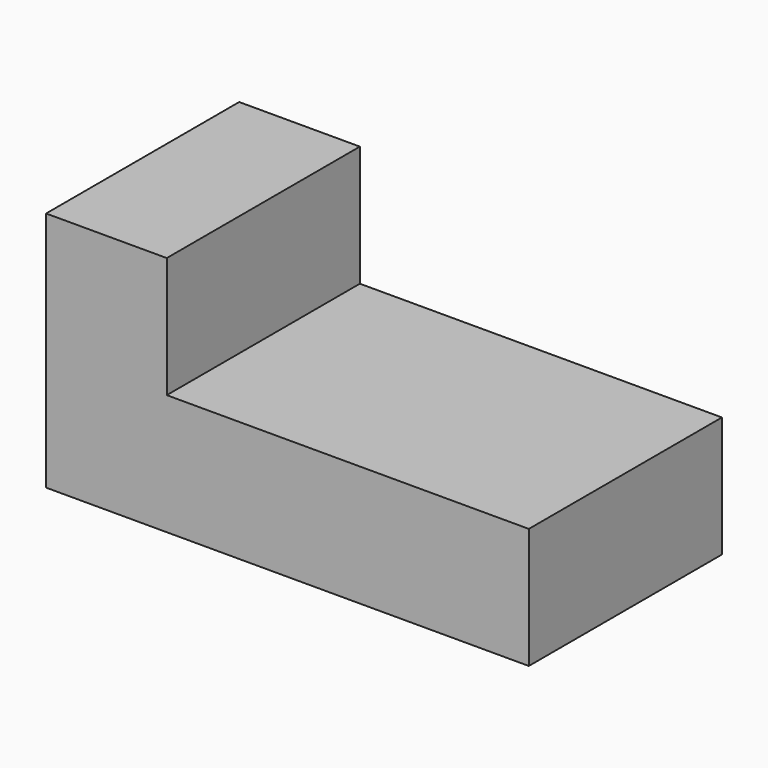
from build123d import *

# Parameters (mm, degrees)
F0_W     = 203.2
F0_H     = 101.6
F1_DEPTH = 50.8
F2_W     = 50.8
F2_H     = 50.8
F3_DEPTH = 101.6
F4_ANGLE = 180


with BuildPart() as f1:
    # F0 (on Top) → F1 (new body)
    with BuildSketch(Plane.XY):
        with Locations((8.5724983364, -10.0287537194)):
            Rectangle(F0_W, F0_H)
    extrude(amount=F1_DEPTH)

    # F2 (on face) → F3 (join)
    with BuildSketch(Plane(origin=(0, 40.7712462806, 0), x_dir=(-1, 0, 0), z_dir=(0, 1, 0))):
        with Locations((-84.7724983364, 76.2)):
            Rectangle(F2_W, F2_H)
    extrude(amount=-F3_DEPTH)


with BuildPart() as f1_1:
    # F4: moved
    add(f1.part.rotate(Axis((110.1724983364, -60.8287537194, 25.4), (0, 0, -1)), F4_ANGLE))


solid = f1_1.part
